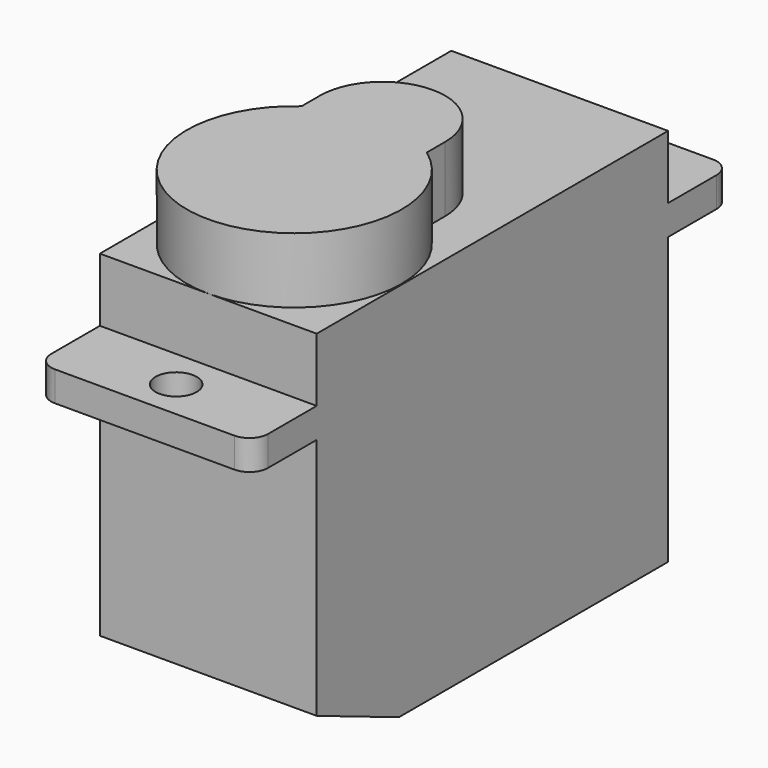
from build123d import *

# Parameters (mm, degrees)
PAD004_DEPTH    = 5.8
PAD007_DEPTH    = 3.5
SKETCH035_R     = 1.1
POCKET014_DEPTH = 2.5
FILLET001_R     = 1


with BuildPart() as part:
    # Sketch037 → Pad004 (new body, symmetric)
    with BuildSketch(Plane.YZ):
        Polygon((-16, 0), (-16, 1.6), (-11.75, 1.6), (-11.75, 5), (11.75, 5), (11.75, 1.6), (16, 1.6), (16, 0), (11.75, 0), (11.75, -15.3), (-6.25, -15.3), (-11.75, -13), (-11.75, 0), align=None)
    extrude(amount=PAD004_DEPTH, both=True)

    # Sketch006 (on DatumPlane) → Pad007 (join)
    with BuildSketch(Plane.XY.offset(5)):
        with BuildLine():
            Line((-3.35, -1.3266714218), (-3.35, -0.0999999323))
            ThreePointArc((3.35, -0.1000001307), (9.92e-08, 3.25), (-3.35, -0.0999999323))
            Line((3.35, -1.3266714218), (3.35, -0.1000001307))
            ThreePointArc((-3.35, -1.3266714218), (0, -11.75), (3.35, -1.3266714218))
        make_face()
    extrude(amount=PAD007_DEPTH)

    # Sketch035 → Pocket014 (cut, symmetric)
    with BuildSketch(Plane.XY):
        with Locations((0, 13.9)):
            Circle(SKETCH035_R)
        with Locations((0, -13.9)):
            Circle(SKETCH035_R)
    extrude(amount=POCKET014_DEPTH, both=True, mode=Mode.SUBTRACT)

    # Fillet001
    fillet001_edges = [part.edges().sort_by_distance(p)[0] for p in [
        (5.8, 16, 0.8),
        (-5.8, 16, 0.8),
        (5.8, -16, 0.8),
        (-5.8, -16, 0.8),
    ]]
    fillet(fillet001_edges, radius=FILLET001_R)


solid = part.part
